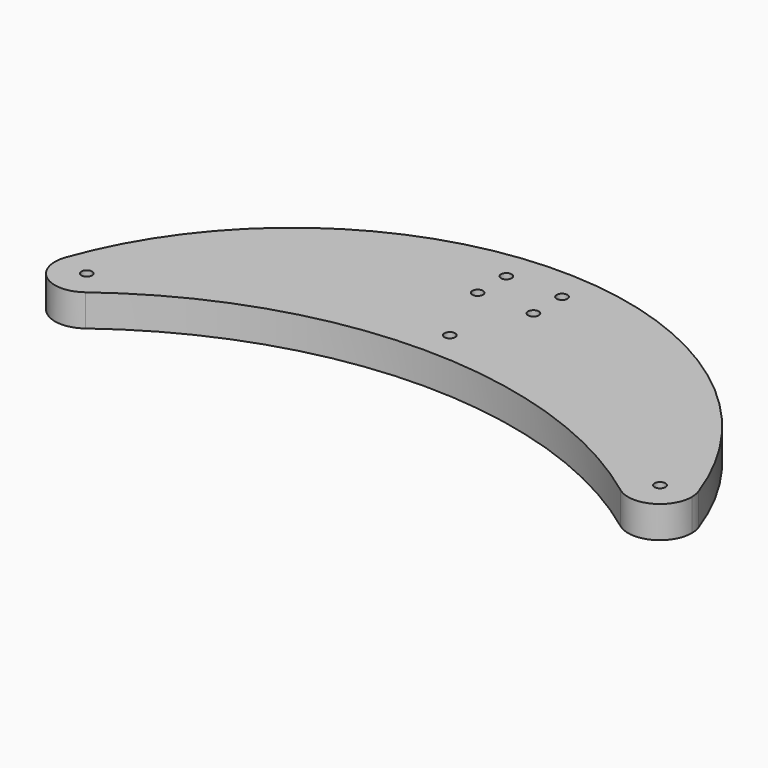
from build123d import *

# Parameters (mm, degrees)
F0_R     = 2.15265
F1_DEPTH = 12.7


with BuildPart() as f1:
    # F0 (on Top) → F1 (new body)
    with BuildSketch(Plane.XY):
        with BuildLine():
            ThreePointArc((20.32, -10.16), (127, 25.4), (233.68, -10.16))
            ThreePointArc((233.68, -10.16), (246.979613, -11.359225), (254, 0))
            ThreePointArc((254, 0), (253.815299, 2.158076), (253.266568, 4.253381))
            ThreePointArc((253.266568, 4.253381), (127, 93.378817), (0.733432, 4.253381))
            ThreePointArc((0.733432, 4.253381), (0.184701, 2.158076), (0, 0))
            ThreePointArc((0, 0), (7.020387, -11.359225), (20.32, -10.16))
        make_face()
        with Locations((12.7, 0)):
            Circle(F0_R, mode=Mode.SUBTRACT)
        with Locations((127, 38.1)):
            Circle(F0_R, mode=Mode.SUBTRACT)
        with Locations((241.3, 0)):
            Circle(F0_R, mode=Mode.SUBTRACT)
        with Locations((115.8875, 65.88125)):
            Circle(F0_R, mode=Mode.SUBTRACT)
        with Locations((115.8875, 80.16875)):
            Circle(F0_R, mode=Mode.SUBTRACT)
        with Locations((138.1125, 65.88125)):
            Circle(F0_R, mode=Mode.SUBTRACT)
        with Locations((138.1125, 80.16875)):
            Circle(F0_R, mode=Mode.SUBTRACT)
    extrude(amount=F1_DEPTH)


solid = f1.part
